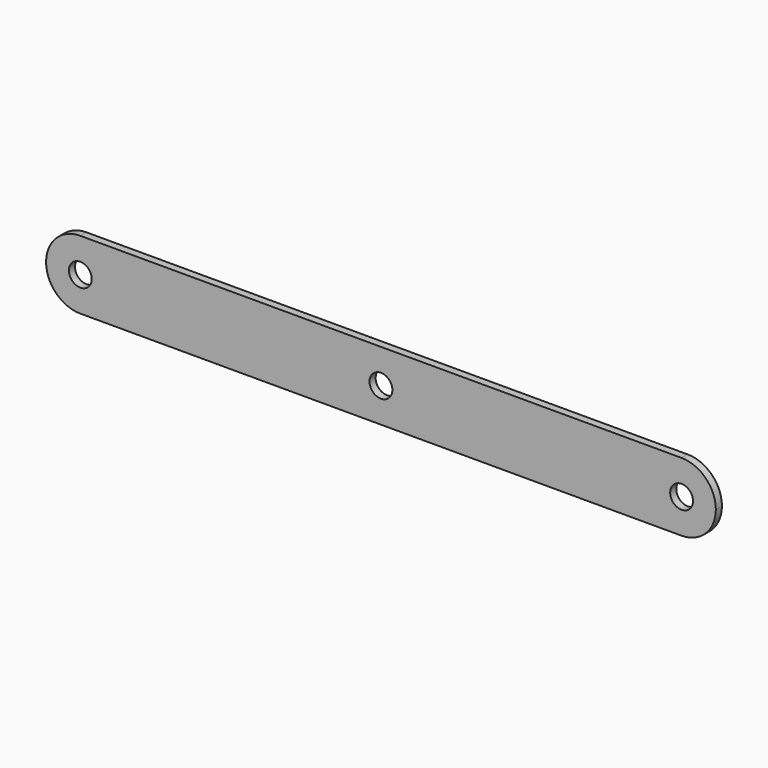
from build123d import *

# Parameters (mm, degrees)
F0_R     = 1.5
F1_DEPTH = 1


with BuildPart() as f1:
    # F0 (on Front) → F1 (new body)
    with BuildSketch(Plane.XZ):
        with BuildLine():
            ThreePointArc((39.5, -4.5), (35, 0), (39.5, 4.5))
            Line((39.5, 4.5), (-39.5, 4.5))
            ThreePointArc((-39.5, 4.5), (-36.318019, 3.181981), (-35, 0))
            ThreePointArc((-35, 0), (-36.318019, -3.181981), (-39.5, -4.5))
            Line((-39.5, -4.5), (39.5, -4.5))
        make_face()
        Circle(F0_R, mode=Mode.SUBTRACT)
        with BuildLine():
            ThreePointArc((44, 0), (42.681981, 3.181981), (39.5, 4.5))
            ThreePointArc((39.5, 4.5), (35, 0), (39.5, -4.5))
            ThreePointArc((39.5, -4.5), (42.681981, -3.181981), (44, 0))
        make_face()
        with Locations((39.5, 0)):
            Circle(F0_R, mode=Mode.SUBTRACT)
        with BuildLine():
            ThreePointArc((-35, 0), (-36.318019, 3.181981), (-39.5, 4.5))
            ThreePointArc((-39.5, 4.5), (-44, 0), (-39.5, -4.5))
            ThreePointArc((-39.5, -4.5), (-36.318019, -3.181981), (-35, 0))
        make_face()
        with Locations((-39.5, 0)):
            Circle(F0_R, mode=Mode.SUBTRACT)
    extrude(amount=F1_DEPTH)


solid = f1.part
